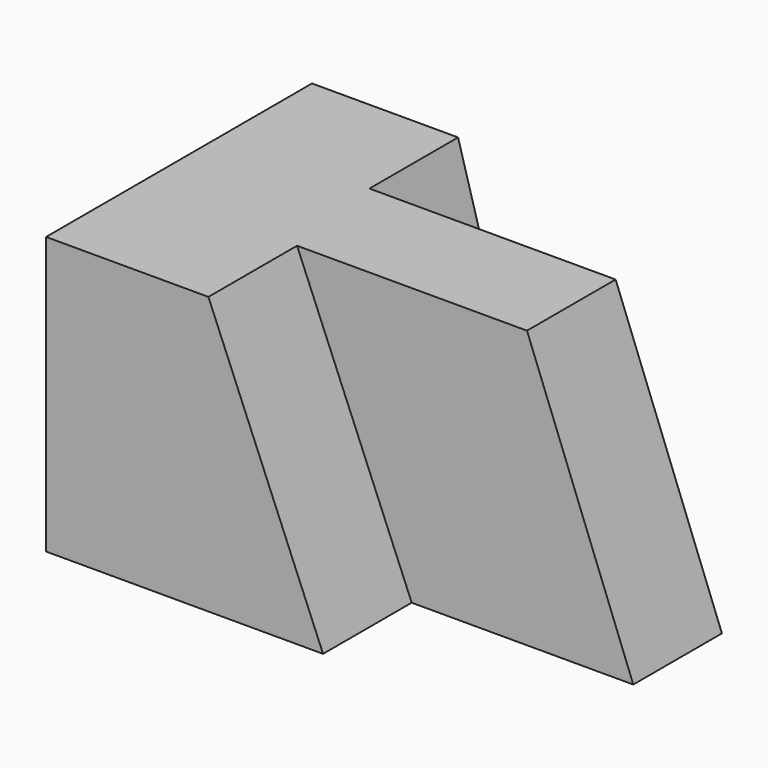
from build123d import *

# Parameters (mm, degrees)
F0_W     = 57.15
F0_H     = 31.75
F1_DEPTH = 38.1
F3_DEPTH = 12.7
F5_DEPTH = 38.1
F7_DEPTH = 12.7


with BuildPart() as f1:
    # F0 (on Front) → F1 (new body)
    with BuildSketch(Plane.XZ):
        with Locations((28.575, 15.875)):
            Rectangle(F0_W, F0_H)
    extrude(amount=F1_DEPTH)

    # F2 (on face) → F3 (cut)
    with BuildSketch(Plane.XZ.offset(38.1)):
        Polygon((31.75, 0), (57.15, 0), (44.966862, 31.75), (18.606976, 31.75), align=None)
    extrude(amount=-F3_DEPTH, mode=Mode.SUBTRACT)

    # F4 (on face) → F5 (cut)
    with BuildSketch(Plane.XZ.offset(38.1)):
        Polygon((57.15, 0), (57.15, 31.75), (44.966862, 31.75), align=None)
    extrude(amount=-F5_DEPTH, mode=Mode.SUBTRACT)

    # F6 (on face) → F7 (cut)
    with BuildSketch(Plane(origin=(0, 0, 0), x_dir=(-1, 0, 0), z_dir=(0, 1, 0))):
        Polygon((-25.739651, 0), (-16.746279, 31.75), (-44.966862, 31.75), (-57.15, 0), align=None)
    extrude(amount=-F7_DEPTH, mode=Mode.SUBTRACT)


solid = f1.part
